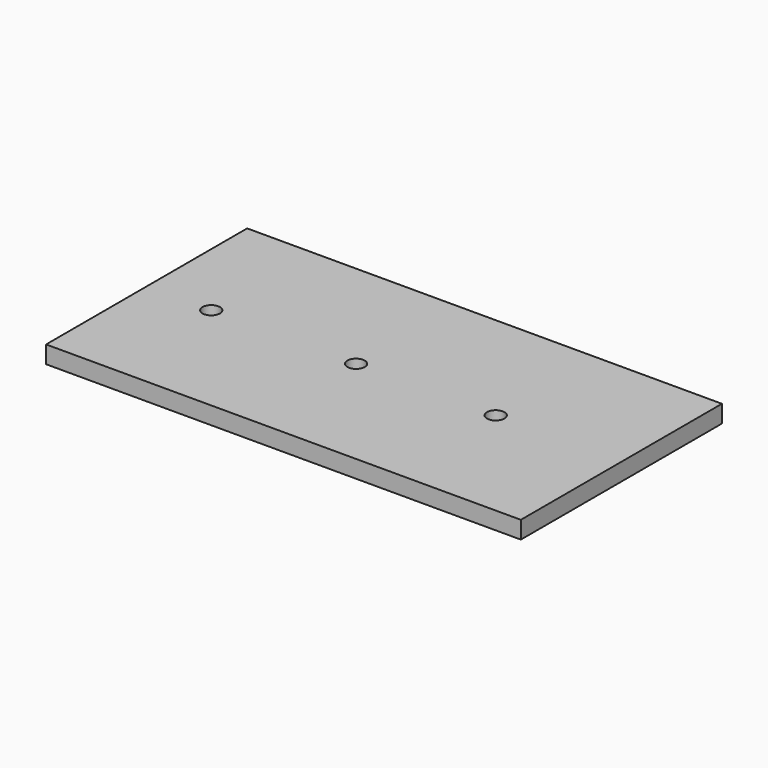
from build123d import *

# Parameters (mm, degrees)
F0_W     = 86.36
F0_H     = 45.72
F0_R     = 1.5875
F1_DEPTH = 3.175


with BuildPart() as f1:
    # F0 (on Top) → F1 (new body)
    with BuildSketch(Plane.XY):
        with Locations((0.506067, -4.306129)):
            Rectangle(F0_W, F0_H)
        with Locations((-30.926433, -4.306129)):
            Circle(F0_R, mode=Mode.SUBTRACT)
        with Locations((-4.573933, -4.306129)):
            Circle(F0_R, mode=Mode.SUBTRACT)
        with Locations((20.826067, -4.306129)):
            Circle(F0_R, mode=Mode.SUBTRACT)
    extrude(amount=F1_DEPTH)


solid = f1.part
